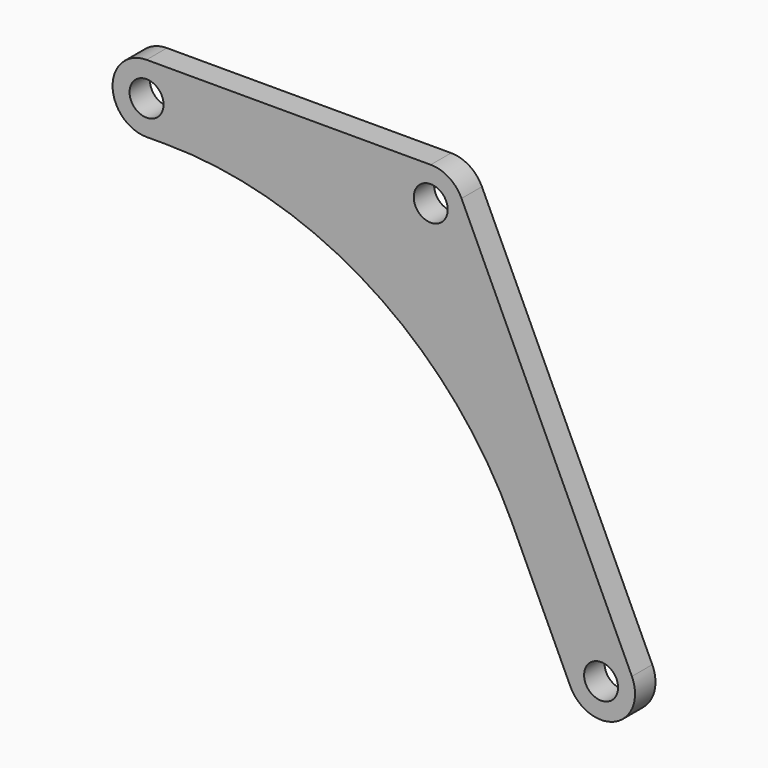
from build123d import *

# Parameters (mm, degrees)
F0_R     = 2
F1_DEPTH = 3


with BuildPart() as f1:
    # F0 (on Front) → F1 (new body)
    with BuildSketch(Plane.XZ):
        with BuildLine():
            ThreePointArc((1.07695, -2.309527), (-0.399083, -0.626434), (-2.548281, 0))
            Line((-2.548281, 0), (-36, 0))
            ThreePointArc((-36, 0), (-40, -4), (-36, -8))
            Line((-36, -8), (-33.764724, -8))
            ThreePointArc((-33.764724, -8), (-9.586241, -15.047385), (7.019127, -33.982178))
            Line((7.019127, -33.982178), (13.880451, -48.696335))
            ThreePointArc((13.880451, -48.696335), (19.196155, -50.631094), (21.130913, -45.315389))
            Line((21.130913, -45.315389), (1.07695, -2.309527))
        make_face()
        with Locations((17.505682, -47.005862)):
            Circle(F0_R, mode=Mode.SUBTRACT)
        with Locations((-36, -4)):
            Circle(F0_R, mode=Mode.SUBTRACT)
        with Locations((-2.548281, -4)):
            Circle(F0_R, mode=Mode.SUBTRACT)
    extrude(amount=F1_DEPTH)


solid = f1.part
